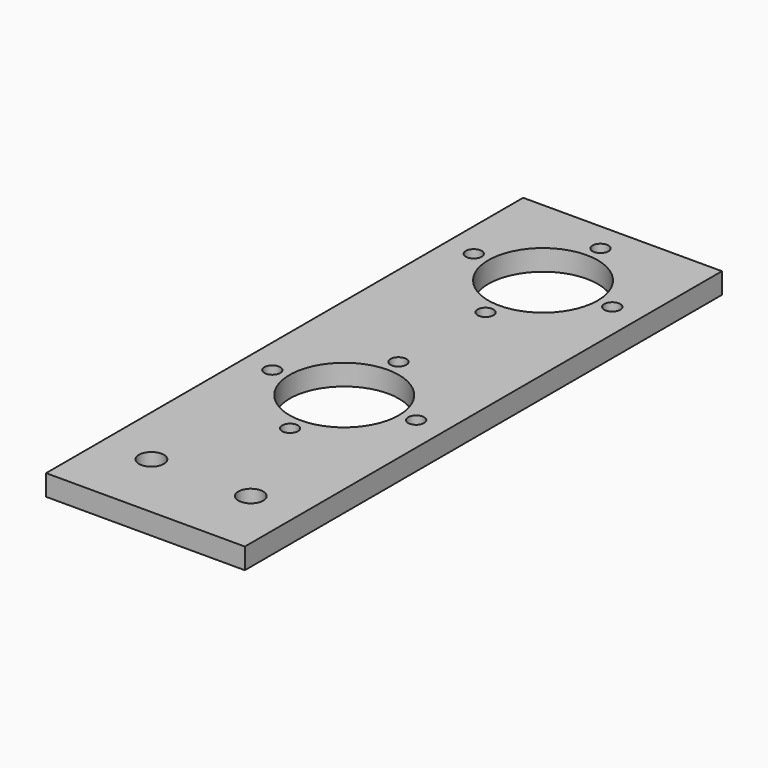
from build123d import *

# Parameters (mm, degrees)
F0_W     = 50.8
F0_H     = 152.4
F0_R     = 2.032
F0_R_2   = 13.97
F1_DEPTH = 5.334
F2_R     = 3.175
F3_DEPTH = 25.4


with BuildPart() as f1:
    # F0 (on Top) → F1 (new body)
    with BuildSketch(Plane.XY):
        with Locations((-18.054181, 9.979866)):
            Rectangle(F0_W, F0_H)
        with Locations((-36.011981, -3.240235)):
            Circle(F0_R, mode=Mode.SUBTRACT)
        with Locations((-18.054181, -2.720134)):
            Circle(F0_R_2, mode=Mode.SUBTRACT)
        with Locations((-17.53408, -20.677934)):
            Circle(F0_R, mode=Mode.SUBTRACT)
        with Locations((-0.096381, -2.200033)):
            Circle(F0_R, mode=Mode.SUBTRACT)
        with Locations((-18.574282, 15.237666)):
            Circle(F0_R, mode=Mode.SUBTRACT)
        with Locations((-18.377712, 42.822066)):
            Circle(F0_R, mode=Mode.SUBTRACT)
        with Locations((-36.011981, 61.103397)):
            Circle(F0_R, mode=Mode.SUBTRACT)
        with Locations((-18.054181, 60.779866)):
            Circle(F0_R_2, mode=Mode.SUBTRACT)
        with Locations((-17.730651, 78.737666)):
            Circle(F0_R, mode=Mode.SUBTRACT)
        with Locations((-0.096381, 60.456336)):
            Circle(F0_R, mode=Mode.SUBTRACT)
    extrude(amount=F1_DEPTH)

    # F2 (on face) → F3 (cut)
    with BuildSketch(Plane(origin=(0, 0, 0), x_dir=(1, 0, 0), z_dir=(0, 0, -1))):
        with Locations((-5.354181, 48.440134)):
            Circle(F2_R)
        with Locations((-30.754181, 48.440134)):
            Circle(F2_R)
    extrude(amount=-F3_DEPTH, mode=Mode.SUBTRACT)


solid = f1.part
